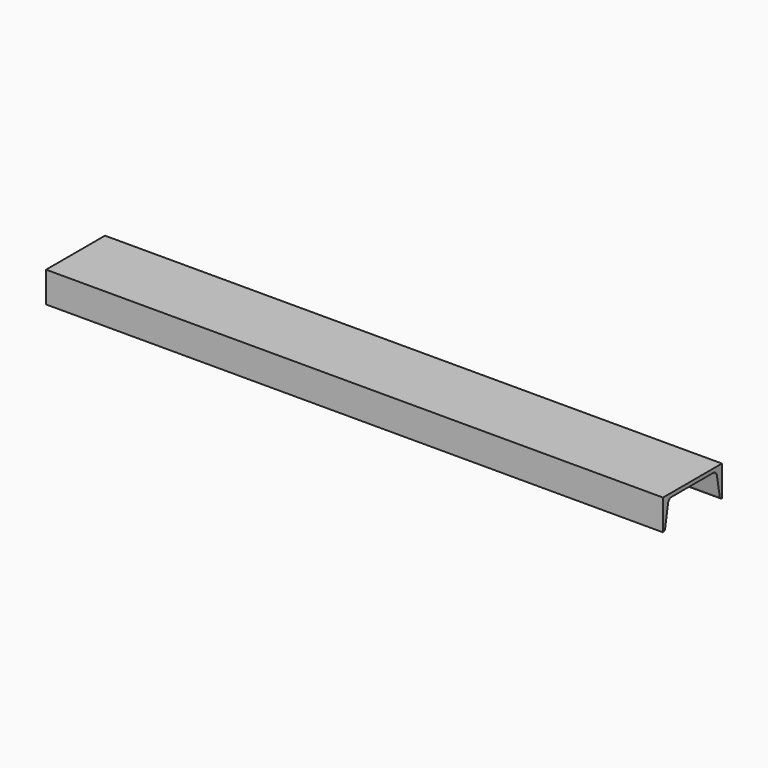
from build123d import *

# Parameters (mm, degrees)
F1_DEPTH = 1276.35


with BuildPart() as f1:
    # F0 (on Right) → F1 (new body)
    with BuildSketch(Plane.YZ):
        with BuildLine():
            Line((76.2, 0), (-76.2, 0))
            Line((-76.2, 0), (-76.2, -63.4238))
            ThreePointArc((-76.2, -63.4238), (-72.574321, -62.102069), (-70.649887, -58.757061))
            Line((-70.649887, -58.757061), (-63.124886, -15.566335))
            ThreePointArc((-63.124886, -15.566335), (-59.952782, -10.052651), (-53.976459, -7.874))
            Line((-53.976459, -7.874), (53.976459, -7.874))
            ThreePointArc((53.976459, -7.874), (59.952782, -10.052651), (63.124886, -15.566335))
            Line((63.124886, -15.566335), (70.649887, -58.757061))
            ThreePointArc((70.649887, -58.757061), (72.574321, -62.102069), (76.2, -63.4238))
            Line((76.2, -63.4238), (76.2, 0))
        make_face()
    extrude(amount=F1_DEPTH)


solid = f1.part
